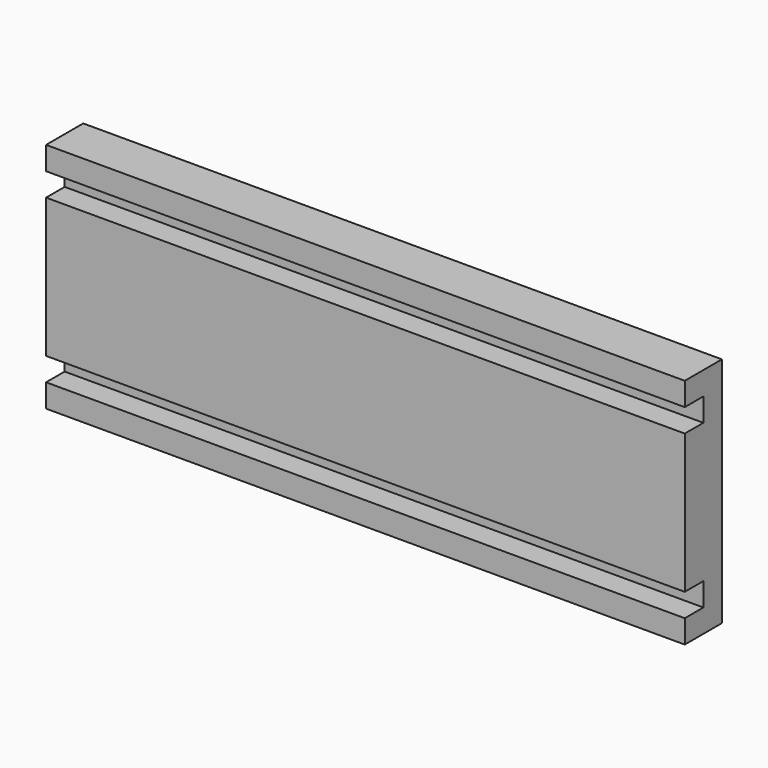
from build123d import *

# Parameters (mm, degrees)
F0_W     = 174.625
F0_H     = 63.5
F1_DEPTH = 12.7
F2_W     = 6.3549128033
F2_H     = 6.35
F2_W_2   = 6.35
F3_DEPTH = 174.625


with BuildPart() as f1:
    # F0 (on Front) → F1 (new body)
    with BuildSketch(Plane.XZ):
        Rectangle(F0_W, F0_H)
    extrude(amount=F1_DEPTH)

    # F2 (on face) → F3 (cut, through all)
    with BuildSketch(Plane.YZ.offset(87.3125)):
        with Locations((-9.5225435983, 22.225)):
            Rectangle(F2_W, F2_H)
        with Locations((-9.525, -22.225)):
            Rectangle(F2_W_2, F2_H)
    extrude(amount=-F3_DEPTH, mode=Mode.SUBTRACT)


solid = f1.part
